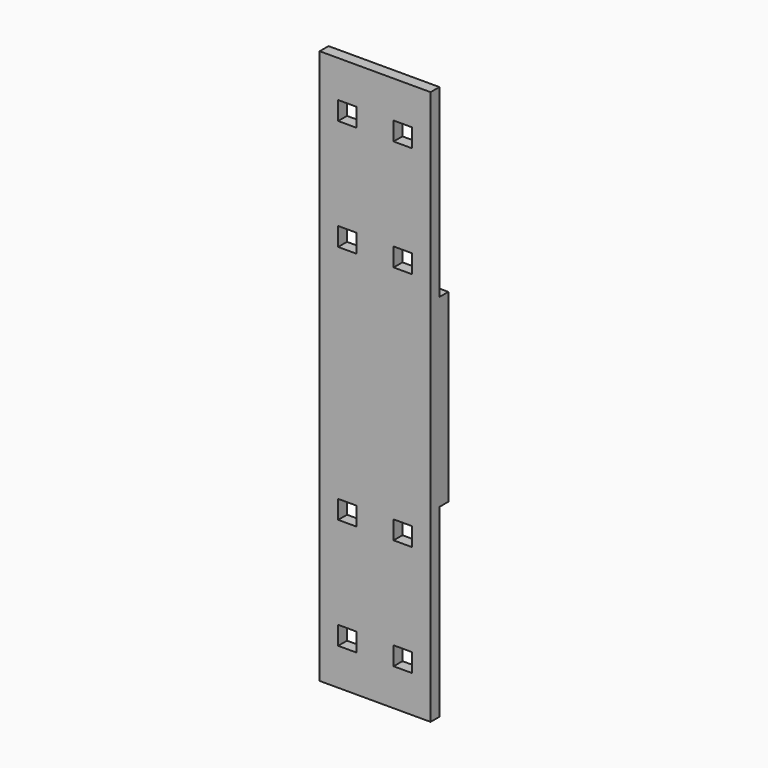
from build123d import *

# Parameters (mm, degrees)
F0_W     = 30
F0_H     = 6
F1_DEPTH = 150
F2_W     = 3
F2_H     = 50
F3_DEPTH = 30
F4_W     = 5
F4_H     = 5
F5_DEPTH = 3


with BuildPart() as f1:
    # F0 (on Top) → F1 (new body)
    with BuildSketch(Plane.XY):
        Rectangle(F0_W, F0_H)
    extrude(amount=F1_DEPTH)

    # F2 (on face) → F3 (cut, through all)
    with BuildSketch(Plane.YZ.offset(15)):
        with Locations((1.5, 125)):
            Rectangle(F2_W, F2_H)
        with Locations((1.5, 25)):
            Rectangle(F2_W, F2_H)
    extrude(amount=-F3_DEPTH, mode=Mode.SUBTRACT)

    # F4 (on face) → F5 (cut, through all)
    with BuildSketch(Plane(origin=(0, 0, 0), x_dir=(-1, 0, 0), z_dir=(0, 1, 0))):
        with Locations((7.5, 12.5)):
            Rectangle(F4_W, F4_H)
        with Locations((-7.5, 12.5)):
            Rectangle(F4_W, F4_H)
        with Locations((-7.5, 42.5)):
            Rectangle(F4_W, F4_H)
        with Locations((7.5, 42.5)):
            Rectangle(F4_W, F4_H)
        with Locations((7.5, 107.5)):
            Rectangle(F4_W, F4_H)
        with Locations((-7.5, 107.5)):
            Rectangle(F4_W, F4_H)
        with Locations((-7.5, 137.5)):
            Rectangle(F4_W, F4_H)
        with Locations((7.5, 137.5)):
            Rectangle(F4_W, F4_H)
    extrude(amount=-F5_DEPTH, mode=Mode.SUBTRACT)


solid = f1.part
